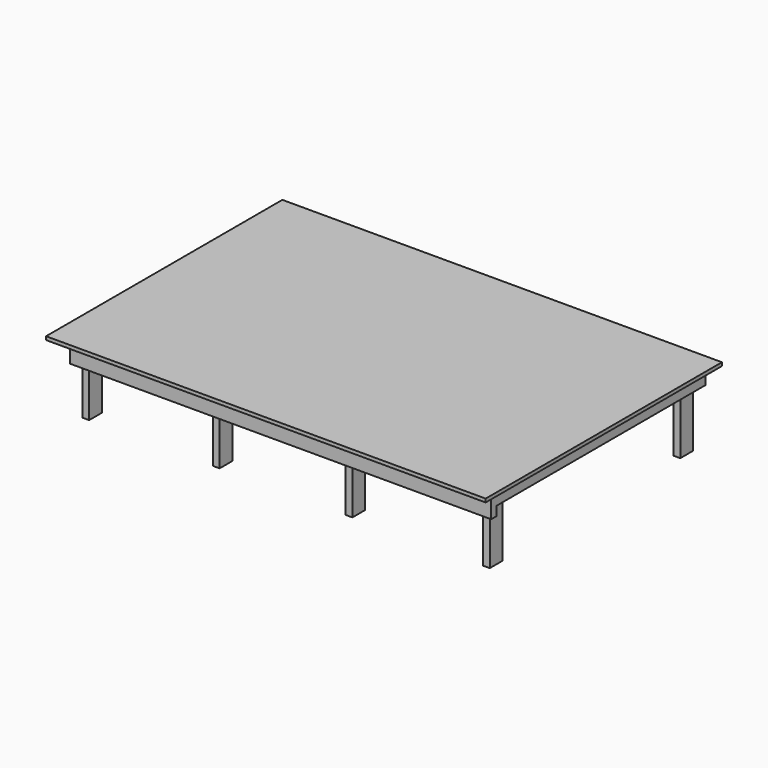
from build123d import *

# Parameters (mm, degrees)
F0_W     = 2438.4
F0_H     = 914.4
F0_H_2   = 723.9
F1_DEPTH = 19.05
F2_W     = 2336.8
F2_H     = 1485.9
F2_W_2   = 279.4
F2_H_2   = 1409.7
F2_W_3   = 368.3
F2_W_4   = 317.5
F3_DEPTH = 88.9
F4_W     = 2336.8
F4_H     = 38.1
F5_DEPTH = 50.8
F6_W     = 38.1
F6_H     = 88.9
F7_DEPTH = 406.4


with BuildPart() as f1:
    # F0 (on Top) → F1 (new body)
    with BuildSketch(Plane.XY):
        with Locations((1219.2, -457.2)):
            Rectangle(F0_W, F0_H)
        with Locations((1219.2, -1276.35)):
            Rectangle(F0_W, F0_H_2)
    extrude(amount=F1_DEPTH)

    # F2 (on face) → F3 (join)
    with BuildSketch(Plane(origin=(0, 0, 0), x_dir=(1, 0, 0), z_dir=(0, 0, -1))):
        with Locations((1219.2, 793.75)):
            Rectangle(F2_W, F2_H)
        with Locations((228.6, 793.75)):
            Rectangle(F2_W_2, F2_H_2, mode=Mode.SUBTRACT)
        with Locations((590.55, 793.75)):
            Rectangle(F2_W_3, F2_H_2, mode=Mode.SUBTRACT)
        with Locations((996.95, 793.75)):
            Rectangle(F2_W_3, F2_H_2, mode=Mode.SUBTRACT)
        with Locations((1403.35, 793.75)):
            Rectangle(F2_W_3, F2_H_2, mode=Mode.SUBTRACT)
        with Locations((1809.75, 793.75)):
            Rectangle(F2_W_3, F2_H_2, mode=Mode.SUBTRACT)
        with Locations((2190.75, 793.75)):
            Rectangle(F2_W_4, F2_H_2, mode=Mode.SUBTRACT)
    extrude(amount=F3_DEPTH)

    # F4 (on face) → F5 (join)
    with BuildSketch(Plane(origin=(0, 0, -88.9), x_dir=(1, 0, 0), z_dir=(0, 0, -1))):
        with Locations((1219.2, 1517.65)):
            Rectangle(F4_W, F4_H)
    extrude(amount=F5_DEPTH)

    # F6 (on face) → F7 (join)
    with BuildSketch(Plane(origin=(0, 0, 0), x_dir=(1, 0, 0), z_dir=(0, 0, -1))):
        with Locations((107.95, 133.35)):
            Rectangle(F6_W, F6_H)
        with Locations((2330.45, 133.35)):
            Rectangle(F6_W, F6_H)
        with Locations((2330.45, 1454.15)):
            Rectangle(F6_W, F6_H)
        with Locations((107.95, 1454.15)):
            Rectangle(F6_W, F6_H)
        with Locations((831.85, 133.35)):
            Rectangle(F6_W, F6_H)
        with Locations((1568.45, 133.35)):
            Rectangle(F6_W, F6_H)
        with Locations((1568.45, 1454.15)):
            Rectangle(F6_W, F6_H)
        with Locations((831.85, 1454.15)):
            Rectangle(F6_W, F6_H)
    extrude(amount=F7_DEPTH)


solid = f1.part
